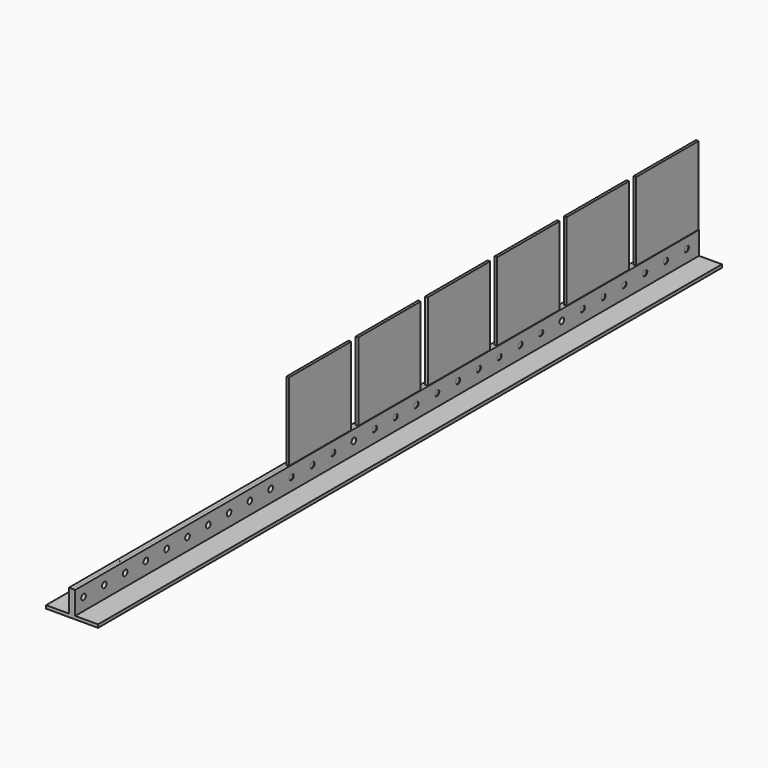
from build123d import *

# Parameters (mm, degrees)
F1_DEPTH = 1500
F3_D     = 11
F5_W     = 150
F5_H     = 200
F6_DEPTH = 5


with BuildPart() as f1:
    # F0 (on Front) → F1 (new body)
    with BuildSketch(Plane.XZ):
        Polygon((0, 50), (0, 0), (50, 0), (50, 6), (6, 6), (6, 50), align=None)
    extrude(amount=F1_DEPTH)

    # F3 (through all)
    with Locations(Plane(origin=(0, 0, 0), x_dir=(0, 1, 0), z_dir=(-1, 0, 0))):
        with Locations((-30, -30), (-80, -30), (-130, -30), (-180, -30), (-230, -30), (-280, -30), (-330, -30), (-380, -30), (-430, -30), (-480, -30), (-530, -30), (-580, -30), (-630, -30), (-680, -30), (-730, -30), (-780, -30), (-830, -30), (-880, -30), (-930, -30), (-980, -30), (-1030, -30), (-1080, -30), (-1130, -30), (-1180, -30), (-1230, -30), (-1280, -30), (-1330, -30), (-1380, -30), (-1430, -30), (-1480, -30)):
            Hole(F3_D / 2)


with BuildPart() as f4_1:
    # F4: instance of F1
    add(f1.part.mirror(Plane.YZ))


with BuildPart() as f6:
    # F5 (on Right) → F6 (new body)
    with BuildSketch(Plane.YZ):
        with Locations((-75, 100)):
            Rectangle(F5_W, F5_H)
    extrude(amount=F6_DEPTH)


with BuildPart() as f6b:
    # F5 (on Right) → F6, piece 2 (new body)
    with BuildSketch(Plane.YZ):
        with Locations((-242, 100)):
            Rectangle(F5_W, F5_H)
    extrude(amount=F6_DEPTH)


with BuildPart() as f6c:
    # F5 (on Right) → F6, piece 3 (new body)
    with BuildSketch(Plane.YZ):
        with Locations((-409, 100)):
            Rectangle(F5_W, F5_H)
    extrude(amount=F6_DEPTH)


with BuildPart() as f6d:
    # F5 (on Right) → F6, piece 4 (new body)
    with BuildSketch(Plane.YZ):
        with Locations((-576, 100)):
            Rectangle(F5_W, F5_H)
    extrude(amount=F6_DEPTH)


with BuildPart() as f6e:
    # F5 (on Right) → F6, piece 5 (new body)
    with BuildSketch(Plane.YZ):
        with Locations((-743, 100)):
            Rectangle(F5_W, F5_H)
    extrude(amount=F6_DEPTH)


with BuildPart() as f6f:
    # F5 (on Right) → F6, piece 6 (new body)
    with BuildSketch(Plane.YZ):
        with Locations((-910, 100)):
            Rectangle(F5_W, F5_H)
    extrude(amount=F6_DEPTH)


solid = Compound([f1.part, f4_1.part, f6.part, f6b.part, f6c.part, f6d.part, f6e.part, f6f.part])
